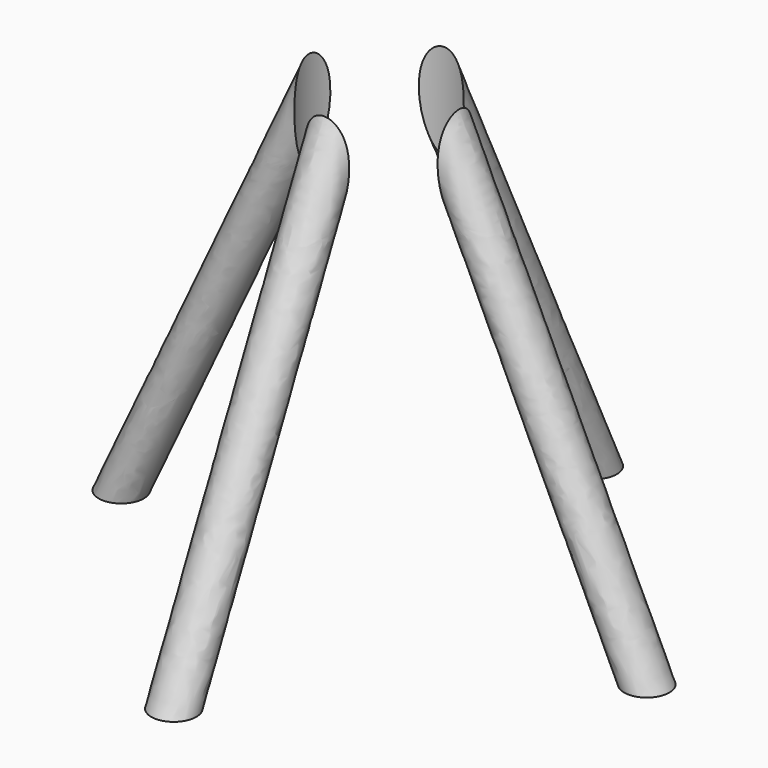
from build123d import *

# Parameters (mm, degrees)
F2_R     = 0.3
F4_COUNT = 4
F5_R     = 1
F6_DEPTH = 6


with BuildPart() as f1:
    # F0 (on Front) → F1 (revolve)
    with BuildSketch(Plane.XZ):
        Polygon((-1, 0), (-1, 6), (-3.833027, 0), align=None)
        Polygon((-3.833027, 0), (-1, 6), (-4.6, 0), align=None)
    revolve(axis=Axis((0, 0, 3), (0, 0, -1)))


with BuildPart() as f3:
    # F3: sweep along a path in F0
    with BuildLine(Plane.XZ) as f3_path:
        Line((-3.833027, 0), (-1, 6))
    # F2 (on face) → F3 (sweep)
    with BuildSketch(Plane(origin=(0, 0, 0), x_dir=(1, 0, 0), z_dir=(0, 0, -1))):
        with Locations((-3.5, 0)):
            Circle(F2_R)
    sweep(path=f3_path.line)


with BuildPart() as f4_1:
    # F4: instance of F3
    add(f3.part.rotate(Axis((0, 0, 6), (0, 0, -1)), 1 * 360 / F4_COUNT))


with BuildPart() as f4_2:
    # F4: instance of F3
    add(f3.part.rotate(Axis((0, 0, 6), (0, 0, -1)), 2 * 360 / F4_COUNT))


with BuildPart() as f4_3:
    # F4: instance of F3
    add(f3.part.rotate(Axis((0, 0, 6), (0, 0, -1)), 3 * 360 / F4_COUNT))


with BuildPart() as f6_tool:
    # F5 (on face) → F6 (new body)
    with BuildSketch(Plane.XY.offset(6)):
        Circle(F5_R)
    extrude(amount=-F6_DEPTH)


with BuildPart() as f3_1:
    add(f3.part)

    # F6: cut by f6_tool
    add(f6_tool.part, mode=Mode.SUBTRACT)


with BuildPart() as f4_1_1:
    add(f4_1.part)

    # F6: cut by f6_tool
    add(f6_tool.part, mode=Mode.SUBTRACT)


with BuildPart() as f4_2_1:
    add(f4_2.part)

    # F6: cut by f6_tool
    add(f6_tool.part, mode=Mode.SUBTRACT)


with BuildPart() as f4_3_1:
    add(f4_3.part)

    # F6: cut by f6_tool
    add(f6_tool.part, mode=Mode.SUBTRACT)


solid = Compound([f3_1.part, f4_1_1.part, f4_2_1.part, f4_3_1.part])
